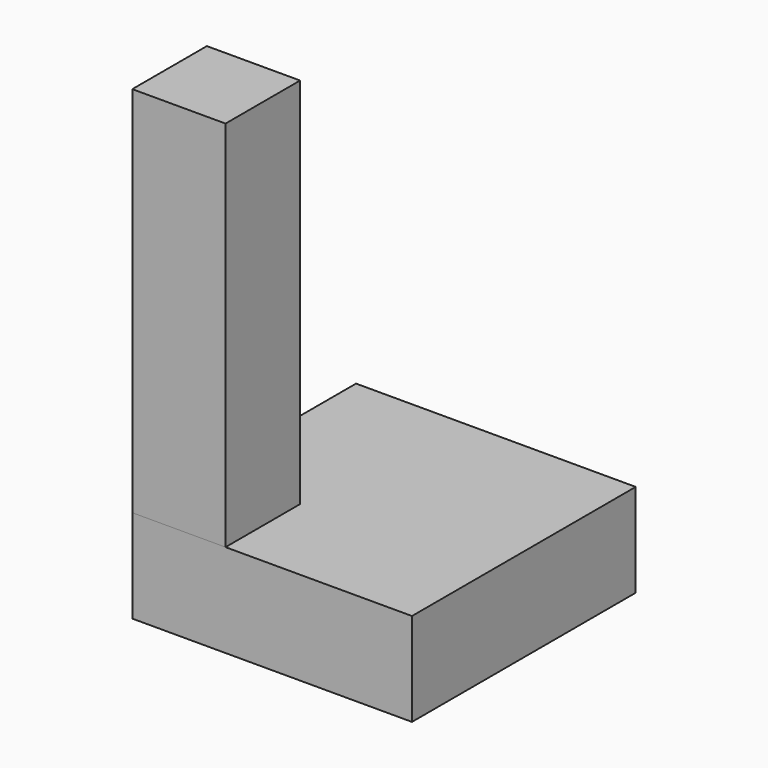
from build123d import *

# Parameters (mm, degrees)
BOX_W        = 10
BOX_H        = 10
BOX_DEPTH    = 50
BOX001_W     = 30
BOX001_H     = 30
BOX001_DEPTH = 10


with BuildPart() as obj1:
    # Box → Box (new body)
    with BuildSketch(Plane.XY):
        with Locations((5, 5)):
            Rectangle(BOX_W, BOX_H)
    extrude(amount=BOX_DEPTH)


with BuildPart() as cube:
    # Box001 → Box001 (new body)
    with BuildSketch(Plane.XY):
        with Locations((15, 15)):
            Rectangle(BOX001_W, BOX001_H)
    extrude(amount=BOX001_DEPTH)


solid = Compound([obj1.part, cube.part])
